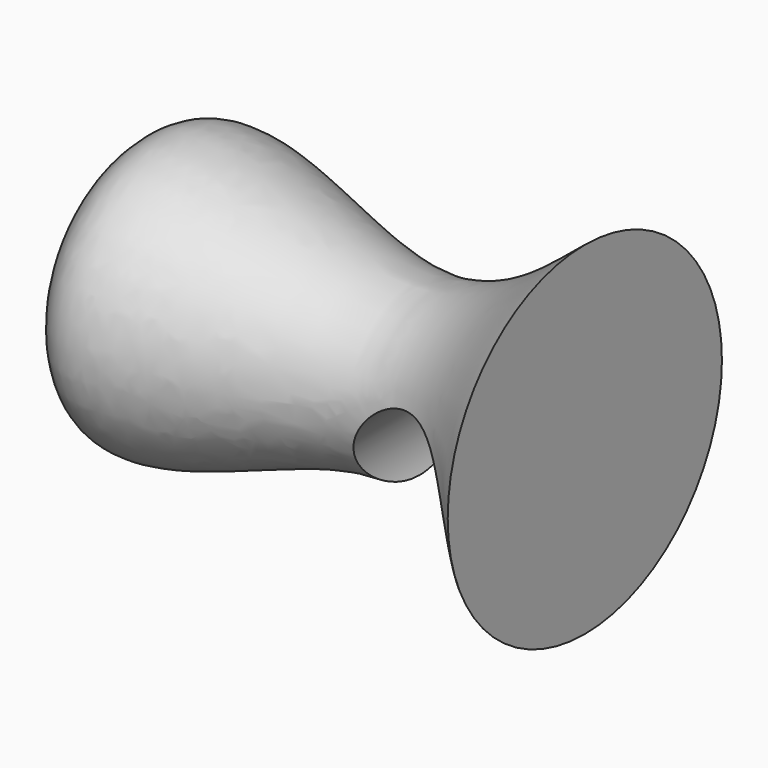
from build123d import *

# Parameters (mm, degrees)
F2_R          = 27.619462393
F3_DEPTH      = 55.4214062627
F3_DEPTH_BACK = 55.4214062627


with BuildPart() as f1:
    # F0 (on Front) → F1 (revolve)
    with BuildSketch(Plane.XZ):
        with BuildLine():
            add(Edge.make_bspline(
                [(-160.4131810332, 0), (-153.8579986201, 13.1184365741), (-146.5931204529, 68.6895273272), (-52.549279311, 8.2296253432), (-15.138139965, 43.1266595132), (0, 55.4204061627)],
                knots=[0, 0, 0, 0, 0.2924343178, 0.6695177669, 1, 1, 1, 1], degree=3))
            Line((-160.4131810332, 0), (0, 0))
            Line((0, 0), (0, 55.4204061627))
        make_face()
    revolve(axis=Axis((-80.2065905166, 0, 0), (-1, 0, 0)))

    # F2 (on Front) → F3 (cut, two sides)
    with BuildSketch(Plane.XZ) as f3_sk:
        with Locations((-27.7109406888, -17.2852333635)):
            Circle(F2_R)
    extrude(amount=-F3_DEPTH, mode=Mode.SUBTRACT)
    extrude(f3_sk.sketch, amount=F3_DEPTH_BACK, mode=Mode.SUBTRACT)


solid = f1.part
